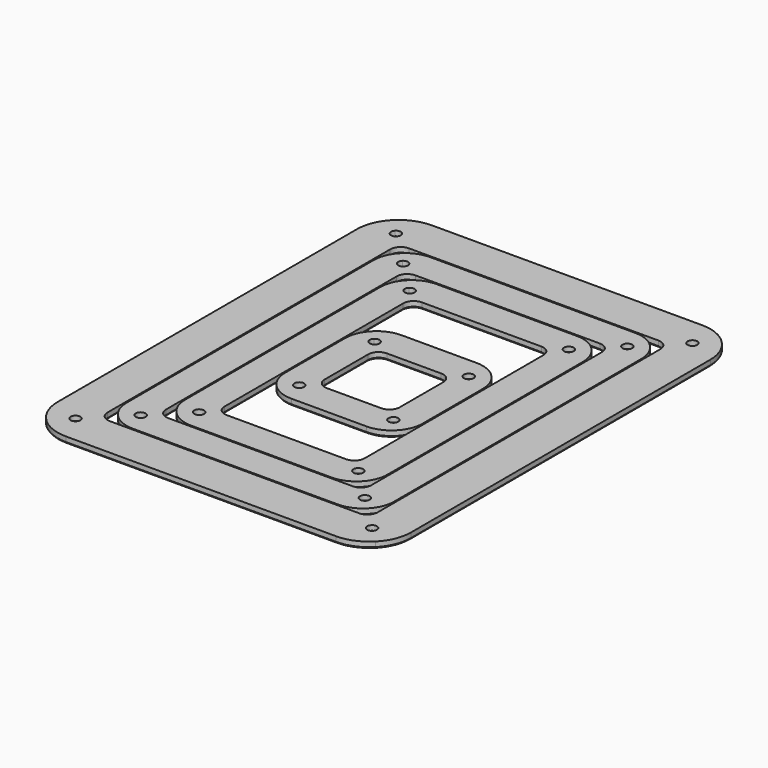
from build123d import *

# Parameters (mm, degrees)
F1_DEPTH  = 2.9972
F3_DEPTH  = 2.9972
F5_DEPTH  = 2.9972
F7_DEPTH  = 2.9972
F8_R      = 2.9845
F9_DEPTH  = 2.9982
F11_DEPTH = 0.79375
F13_DEPTH = 0.79375
F15_DEPTH = 0.79375
F17_DEPTH = 0.79375


with BuildPart() as f1:
    # F0 (on Top) → F1 (new body)
    with BuildSketch(Plane.XY):
        with BuildLine():
            Line((82.55, 139.7), (-82.55, 139.7))
            ThreePointArc((-82.55, 139.7), (-100.510512, 132.260512), (-107.95, 114.3))
            Line((-107.95, 114.3), (-107.95, -114.3))
            ThreePointArc((-107.95, -114.3), (-100.510512, -132.260512), (-82.55, -139.7))
            Line((-82.55, -139.7), (82.55, -139.7))
            ThreePointArc((82.55, -139.7), (92.270159, -137.76654), (100.510512, -132.260512))
            ThreePointArc((100.510512, -132.260512), (106.01654, -124.020159), (107.95, -114.3))
            Line((107.95, -114.3), (107.95, 114.3))
            ThreePointArc((107.95, 114.3), (100.510512, 132.260512), (82.55, 139.7))
        make_face()
        with BuildLine():
            ThreePointArc((82.55, -107.95), (82.066635, -110.38004), (80.690128, -112.440128))
            ThreePointArc((80.690128, -112.440128), (78.63004, -113.816635), (76.2, -114.3))
            Line((76.2, -114.3), (-76.2, -114.3))
            ThreePointArc((-76.2, -114.3), (-80.690128, -112.440128), (-82.55, -107.95))
            Line((-82.55, -107.95), (-82.55, 107.95))
            ThreePointArc((-82.55, 107.95), (-80.690128, 112.440128), (-76.2, 114.3))
            Line((-76.2, 114.3), (76.2, 114.3))
            ThreePointArc((76.2, 114.3), (80.690128, 112.440128), (82.55, 107.95))
            Line((82.55, 107.95), (82.55, -107.95))
        make_face(mode=Mode.SUBTRACT)
    extrude(amount=F1_DEPTH)


with BuildPart() as f3:
    # F2 (on Top) → F3 (new body, through all)
    with BuildSketch(Plane.XY):
        with BuildLine():
            Line((62.6872, 113.4872), (-62.6872, 113.4872))
            ThreePointArc((-62.6872, 113.4872), (-76.157584, 107.907584), (-81.7372, 94.4372))
            Line((-81.7372, 94.4372), (-81.7372, -94.4372))
            ThreePointArc((-81.7372, -94.4372), (-76.157584, -107.907584), (-62.6872, -113.4872))
            Line((-62.6872, -113.4872), (62.6872, -113.4872))
            ThreePointArc((62.6872, -113.4872), (76.157584, -107.907584), (81.7372, -94.4372))
            Line((81.7372, -94.4372), (81.7372, 94.4372))
            ThreePointArc((81.7372, 94.4372), (76.157584, 107.907584), (62.6872, 113.4872))
        make_face()
        with BuildLine():
            ThreePointArc((-62.6872, 88.0872), (-60.827328, 92.577328), (-56.3372, 94.4372))
            Line((-56.3372, 94.4372), (56.3372, 94.4372))
            ThreePointArc((56.3372, 94.4372), (60.827328, 92.577328), (62.6872, 88.0872))
            Line((62.6872, 88.0872), (62.6872, -88.0872))
            ThreePointArc((62.6872, -88.0872), (60.827328, -92.577328), (56.3372, -94.4372))
            Line((56.3372, -94.4372), (-56.3372, -94.4372))
            ThreePointArc((-56.3372, -94.4372), (-60.827328, -92.577328), (-62.6872, -88.0872))
            Line((-62.6872, -88.0872), (-62.6872, 88.0872))
        make_face(mode=Mode.SUBTRACT)
    extrude(amount=F3_DEPTH)


with BuildPart() as f5:
    # F4 (on Top) → F5 (new body, through all)
    with BuildSketch(Plane.XY):
        with BuildLine():
            Line((42.8244, 93.6244), (-42.8244, 93.6244))
            ThreePointArc((-42.8244, 93.6244), (-56.294784, 88.044784), (-61.8744, 74.5744))
            Line((-61.8744, 74.5744), (-61.8744, -74.5744))
            ThreePointArc((-61.8744, -74.5744), (-56.294784, -88.044784), (-42.8244, -93.6244))
            Line((-42.8244, -93.6244), (42.8244, -93.6244))
            ThreePointArc((42.8244, -93.6244), (56.294784, -88.044784), (61.8744, -74.5744))
            Line((61.8744, -74.5744), (61.8744, 74.5744))
            ThreePointArc((61.8744, 74.5744), (56.294784, 88.044784), (42.8244, 93.6244))
        make_face()
        with BuildLine():
            ThreePointArc((-42.8244, 68.2244), (-40.964528, 72.714528), (-36.4744, 74.5744))
            Line((-36.4744, 74.5744), (36.4744, 74.5744))
            ThreePointArc((36.4744, 74.5744), (40.964528, 72.714528), (42.8244, 68.2244))
            Line((42.8244, 68.2244), (42.8244, -68.2244))
            ThreePointArc((42.8244, -68.2244), (40.964528, -72.714528), (36.4744, -74.5744))
            Line((36.4744, -74.5744), (-36.4744, -74.5744))
            ThreePointArc((-36.4744, -74.5744), (-40.964528, -72.714528), (-42.8244, -68.2244))
            Line((-42.8244, -68.2244), (-42.8244, 68.2244))
        make_face(mode=Mode.SUBTRACT)
    extrude(amount=F5_DEPTH)


with BuildPart() as f7:
    # F6 (on Top) → F7 (new body, through all)
    with BuildSketch(Plane.XY):
        with BuildLine():
            Line((22.9616, 42.0116), (-22.9616, 42.0116))
            ThreePointArc((-22.9616, 42.0116), (-36.431984, 36.431984), (-42.0116, 22.9616))
            Line((-42.0116, 22.9616), (-42.0116, -22.9616))
            ThreePointArc((-42.0116, -22.9616), (-36.431984, -36.431984), (-22.9616, -42.0116))
            Line((-22.9616, -42.0116), (22.9616, -42.0116))
            ThreePointArc((22.9616, -42.0116), (36.431984, -36.431984), (42.0116, -22.9616))
            Line((42.0116, -22.9616), (42.0116, 22.9616))
            ThreePointArc((42.0116, 22.9616), (36.431984, 36.431984), (22.9616, 42.0116))
        make_face()
        with BuildLine():
            ThreePointArc((-22.9616, 16.6116), (-21.101728, 21.101728), (-16.6116, 22.9616))
            Line((-16.6116, 22.9616), (16.6116, 22.9616))
            ThreePointArc((16.6116, 22.9616), (21.101728, 21.101728), (22.9616, 16.6116))
            Line((22.9616, 16.6116), (22.9616, -16.6116))
            ThreePointArc((22.9616, -16.6116), (21.101728, -21.101728), (16.6116, -22.9616))
            Line((16.6116, -22.9616), (-16.6116, -22.9616))
            ThreePointArc((-16.6116, -22.9616), (-21.101728, -21.101728), (-22.9616, -16.6116))
            Line((-22.9616, -16.6116), (-22.9616, 16.6116))
        make_face(mode=Mode.SUBTRACT)
    extrude(amount=F7_DEPTH)


with BuildPart() as f9_tool:
    # F8 (on Top) → F9 (new body, through all)
    with BuildSketch(Plane.XY):
        with BuildLine():
            ThreePointArc((-92.71068, 124.46068), (-92.71068, 120.23996), (-88.48996, 120.23996))
            Line((-88.48996, 120.23996), (-92.71068, 124.46068))
        make_face()
        with BuildLine():
            Line((-92.71068, 124.46068), (-88.48996, 120.23996))
            ThreePointArc((-88.48996, 120.23996), (-87.843002, 121.208201), (-87.61582, 122.35032))
            ThreePointArc((-87.61582, 122.35032), (-89.458201, 125.107639), (-92.71068, 124.46068))
        make_face()
        with BuildLine():
            ThreePointArc((-65.507956, 100.242456), (-67.350337, 102.999775), (-70.602816, 102.352816))
            Line((-70.602816, 102.352816), (-66.382096, 98.132096))
            ThreePointArc((-66.382096, 98.132096), (-65.735138, 99.100337), (-65.507956, 100.242456))
        make_face()
        with BuildLine():
            Line((-66.382096, 98.132096), (-70.602816, 102.352816))
            ThreePointArc((-70.602816, 102.352816), (-70.602816, 98.132096), (-66.382096, 98.132096))
        make_face()
        with BuildLine():
            ThreePointArc((-45.645156, 80.379656), (-47.487537, 83.136975), (-50.740016, 82.490016))
            Line((-50.740016, 82.490016), (-46.519296, 78.269296))
            ThreePointArc((-46.519296, 78.269296), (-45.872338, 79.237537), (-45.645156, 80.379656))
        make_face()
        with BuildLine():
            Line((-46.519296, 78.269296), (-50.740016, 82.490016))
            ThreePointArc((-50.740016, 82.490016), (-50.740016, 78.269296), (-46.519296, 78.269296))
        make_face()
        with BuildLine():
            ThreePointArc((-25.782356, 28.766856), (-27.624737, 31.524175), (-30.877216, 30.877216))
            Line((-30.877216, 30.877216), (-26.656496, 26.656496))
            ThreePointArc((-26.656496, 26.656496), (-26.009538, 27.624737), (-25.782356, 28.766856))
        make_face()
        with BuildLine():
            Line((-26.656496, 26.656496), (-30.877216, 30.877216))
            ThreePointArc((-30.877216, 30.877216), (-30.877216, 26.656496), (-26.656496, 26.656496))
        make_face()
        with Locations((-28.766856, -28.766856)):
            Circle(F8_R)
        with Locations((-48.629656, -80.379656)):
            Circle(F8_R)
        with Locations((-68.492456, -100.242456)):
            Circle(F8_R)
        with Locations((-90.60032, -122.35032)):
            Circle(F8_R)
        with Locations((90.60032, 122.35032)):
            Circle(F8_R)
        with Locations((68.492456, 100.242456)):
            Circle(F8_R)
        with Locations((48.629656, 80.379656)):
            Circle(F8_R)
        with Locations((28.766856, 28.766856)):
            Circle(F8_R)
        with Locations((28.766856, -28.766856)):
            Circle(F8_R)
        with Locations((48.629656, -80.379656)):
            Circle(F8_R)
        with Locations((68.492456, -100.242456)):
            Circle(F8_R)
        with Locations((90.60032, -122.35032)):
            Circle(F8_R)
    extrude(amount=F9_DEPTH)


with BuildPart() as f1_1:
    add(f1.part)

    # F9: cut by f9_tool
    add(f9_tool.part, mode=Mode.SUBTRACT)


with BuildPart() as f3_1:
    add(f3.part)

    # F9: cut by f9_tool
    add(f9_tool.part, mode=Mode.SUBTRACT)


with BuildPart() as f5_1:
    add(f5.part)

    # F9: cut by f9_tool
    add(f9_tool.part, mode=Mode.SUBTRACT)


with BuildPart() as f7_1:
    add(f7.part)

    # F9: cut by f9_tool
    add(f9_tool.part, mode=Mode.SUBTRACT)


with BuildPart() as f11:
    # F10 (on Top) → F11 (new body)
    with BuildSketch(Plane.XY):
        with BuildLine():
            Line((107.315, -114.3), (107.315, 114.3))
            ThreePointArc((107.315, 114.3), (100.061499, 131.811499), (82.55, 139.065))
            Line((82.55, 139.065), (-82.55, 139.065))
            ThreePointArc((-82.55, 139.065), (-100.061499, 131.811499), (-107.315, 114.3))
            Line((-107.315, 114.3), (-107.315, -114.3))
            ThreePointArc((-107.315, -114.3), (-100.061499, -131.811499), (-82.55, -139.065))
            Line((-82.55, -139.065), (82.55, -139.065))
            ThreePointArc((82.55, -139.065), (100.061499, -131.811499), (107.315, -114.3))
        make_face()
        with BuildLine():
            ThreePointArc((76.2, 114.935), (81.139141, 112.889141), (83.185, 107.95))
            Line((83.185, 107.95), (83.185, -107.95))
            ThreePointArc((83.185, -107.95), (81.139141, -112.889141), (76.2, -114.935))
            Line((76.2, -114.935), (-76.2, -114.935))
            ThreePointArc((-76.2, -114.935), (-81.139141, -112.889141), (-83.185, -107.95))
            Line((-83.185, -107.95), (-83.185, 107.95))
            ThreePointArc((-83.185, 107.95), (-81.139141, 112.889141), (-76.2, 114.935))
            Line((-76.2, 114.935), (76.2, 114.935))
        make_face(mode=Mode.SUBTRACT)
    extrude(amount=-F11_DEPTH)


with BuildPart() as f13:
    # F12 (on Top) → F13 (new body)
    with BuildSketch(Plane.XY):
        with BuildLine():
            Line((81.1022, -94.4372), (81.1022, 94.4372))
            ThreePointArc((81.1022, 94.4372), (75.708571, 107.458571), (62.6872, 112.8522))
            Line((62.6872, 112.8522), (-62.6872, 112.8522))
            ThreePointArc((-62.6872, 112.8522), (-75.708571, 107.458571), (-81.1022, 94.4372))
            Line((-81.1022, 94.4372), (-81.1022, -94.4372))
            ThreePointArc((-81.1022, -94.4372), (-75.708571, -107.458571), (-62.6872, -112.8522))
            Line((-62.6872, -112.8522), (62.6872, -112.8522))
            ThreePointArc((62.6872, -112.8522), (75.708571, -107.458571), (81.1022, -94.4372))
        make_face()
        with BuildLine():
            ThreePointArc((56.3372, 95.0722), (61.276341, 93.026341), (63.3222, 88.0872))
            Line((63.3222, 88.0872), (63.3222, -88.0872))
            ThreePointArc((63.3222, -88.0872), (61.276341, -93.026341), (56.3372, -95.0722))
            Line((56.3372, -95.0722), (-56.3372, -95.0722))
            ThreePointArc((-56.3372, -95.0722), (-61.276341, -93.026341), (-63.3222, -88.0872))
            Line((-63.3222, -88.0872), (-63.3222, 88.0872))
            ThreePointArc((-63.3222, 88.0872), (-61.276341, 93.026341), (-56.3372, 95.0722))
            Line((-56.3372, 95.0722), (56.3372, 95.0722))
        make_face(mode=Mode.SUBTRACT)
    extrude(amount=-F13_DEPTH)


with BuildPart() as f15:
    # F14 (on Top) → F15 (new body)
    with BuildSketch(Plane.XY):
        with BuildLine():
            Line((61.2394, -74.5744), (61.2394, 74.5744))
            ThreePointArc((61.2394, 74.5744), (55.845771, 87.595771), (42.8244, 92.9894))
            Line((42.8244, 92.9894), (-42.8244, 92.9894))
            ThreePointArc((-42.8244, 92.9894), (-55.845771, 87.595771), (-61.2394, 74.5744))
            Line((-61.2394, 74.5744), (-61.2394, -74.5744))
            ThreePointArc((-61.2394, -74.5744), (-55.845771, -87.595771), (-42.8244, -92.9894))
            Line((-42.8244, -92.9894), (42.8244, -92.9894))
            ThreePointArc((42.8244, -92.9894), (55.845771, -87.595771), (61.2394, -74.5744))
        make_face()
        with BuildLine():
            ThreePointArc((36.4744, 75.2094), (41.413541, 73.163541), (43.4594, 68.2244))
            Line((43.4594, 68.2244), (43.4594, -68.2244))
            ThreePointArc((43.4594, -68.2244), (41.413541, -73.163541), (36.4744, -75.2094))
            Line((36.4744, -75.2094), (-36.4744, -75.2094))
            ThreePointArc((-36.4744, -75.2094), (-41.413541, -73.163541), (-43.4594, -68.2244))
            Line((-43.4594, -68.2244), (-43.4594, 68.2244))
            ThreePointArc((-43.4594, 68.2244), (-41.413541, 73.163541), (-36.4744, 75.2094))
            Line((-36.4744, 75.2094), (36.4744, 75.2094))
        make_face(mode=Mode.SUBTRACT)
    extrude(amount=-F15_DEPTH)


with BuildPart() as f17:
    # F16 (on Top) → F17 (new body)
    with BuildSketch(Plane.XY):
        with BuildLine():
            Line((41.3766, -22.9616), (41.3766, 22.9616))
            ThreePointArc((41.3766, 22.9616), (35.982971, 35.982971), (22.9616, 41.3766))
            Line((22.9616, 41.3766), (-22.9616, 41.3766))
            ThreePointArc((-22.9616, 41.3766), (-35.982971, 35.982971), (-41.3766, 22.9616))
            Line((-41.3766, 22.9616), (-41.3766, -22.9616))
            ThreePointArc((-41.3766, -22.9616), (-35.982971, -35.982971), (-22.9616, -41.3766))
            Line((-22.9616, -41.3766), (22.9616, -41.3766))
            ThreePointArc((22.9616, -41.3766), (35.982971, -35.982971), (41.3766, -22.9616))
        make_face()
        with BuildLine():
            ThreePointArc((16.6116, 23.5966), (21.550741, 21.550741), (23.5966, 16.6116))
            Line((23.5966, 16.6116), (23.5966, -16.6116))
            ThreePointArc((23.5966, -16.6116), (21.550741, -21.550741), (16.6116, -23.5966))
            Line((16.6116, -23.5966), (-16.6116, -23.5966))
            ThreePointArc((-16.6116, -23.5966), (-21.550741, -21.550741), (-23.5966, -16.6116))
            Line((-23.5966, -16.6116), (-23.5966, 16.6116))
            ThreePointArc((-23.5966, 16.6116), (-21.550741, 21.550741), (-16.6116, 23.5966))
            Line((-16.6116, 23.5966), (16.6116, 23.5966))
        make_face(mode=Mode.SUBTRACT)
    extrude(amount=-F17_DEPTH)


solid = Compound([f1_1.part, f3_1.part, f5_1.part, f7_1.part, f11.part, f13.part, f15.part, f17.part])
